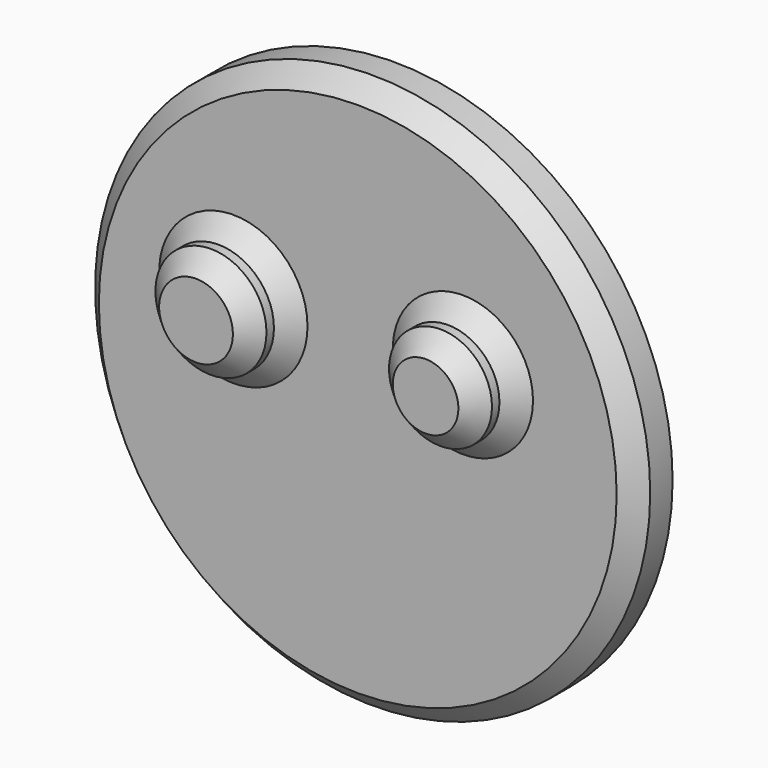
from build123d import *

# Parameters (mm, degrees)
F0_R     = 75.614266
F1_DEPTH = 12.7
F2_R     = 14.018878
F2_R_2   = 15.125501
F3_DEPTH = 12.7
F4_SIZE  = 5.08
F5_SIZE  = 5.08


with BuildPart() as f1:
    # F0 (on Front) → F1 (new body)
    with BuildSketch(Plane.XZ):
        Circle(F0_R)
    extrude(amount=F1_DEPTH)

    # F2 (on face) → F3 (join)
    with BuildSketch(Plane.XZ.offset(12.7)):
        with Locations((28.639855, 15.135232)):
            Circle(F2_R)
        with Locations((-33.897843, 12.963785)):
            Circle(F2_R_2)
    extrude(amount=F3_DEPTH)

    # F4
    f4_edges = [f1.edges().sort_by_distance(p)[0] for p in [
        (-49.023345, -25.4, 12.963785),
        (14.620977, -25.4, 15.135232),
    ]]
    chamfer(f4_edges, length=F4_SIZE)

    # F5
    f5_edges = [f1.edges().sort_by_distance(p)[0] for p in [
        (-75.614266, -12.7, 0),
        (-49.023345, -12.7, 12.963785),
        (14.620977, -12.7, 15.135232),
    ]]
    chamfer(f5_edges, length=F5_SIZE)


solid = f1.part
